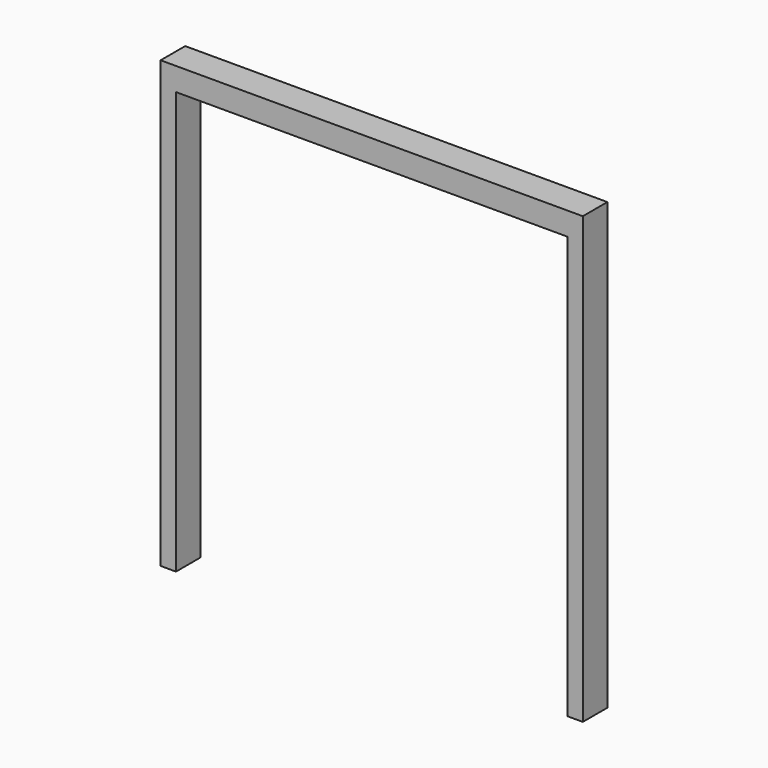
from build123d import *

# Parameters (mm, degrees)
F0_W     = 3352.8
F0_H     = 243.84
F1_DEPTH = 182.88
F2_W     = 121.92
F2_H     = 243.84
F3_DEPTH = 3352.8


with BuildPart() as f1:
    # F0 (on Top) → F1 (new body)
    with BuildSketch(Plane.XY):
        with Locations((1676.4, -121.92)):
            Rectangle(F0_W, F0_H)
    extrude(amount=F1_DEPTH)

    # F2 (on face) → F3 (join)
    with BuildSketch(Plane(origin=(0, 0, 0), x_dir=(1, 0, 0), z_dir=(0, 0, -1))):
        with Locations((60.96, 121.92)):
            Rectangle(F2_W, F2_H)
        with Locations((3291.84, 121.92)):
            Rectangle(F2_W, F2_H)
    extrude(amount=F3_DEPTH)


solid = f1.part
